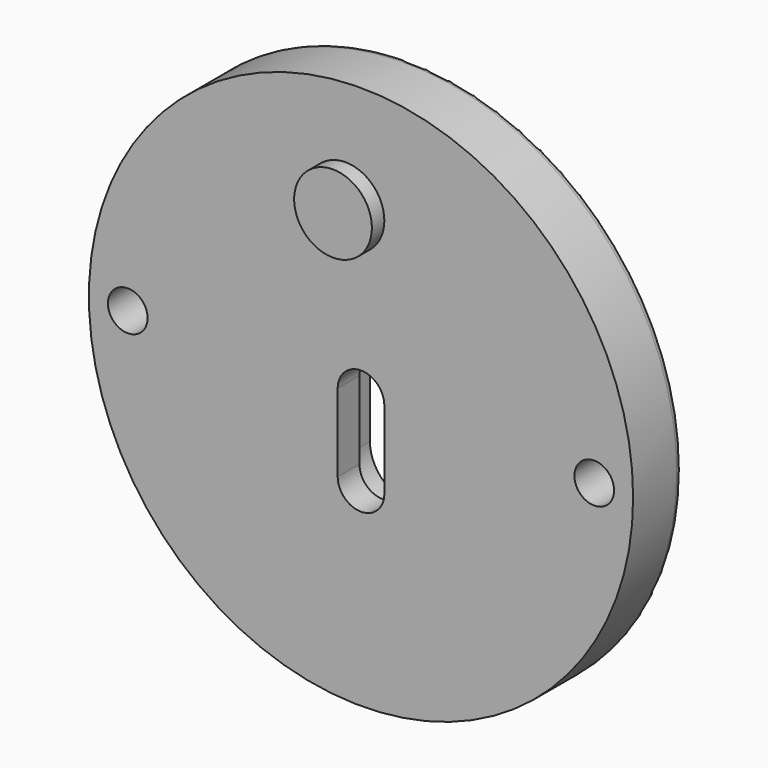
from build123d import *

# Parameters (mm, degrees)
F0_R     = 35
F0_R_2   = 2.55
F0_R_3   = 5
F1_DEPTH = 8
F2_DEPTH = 8
F3_DEPTH = 4.5
F4_R     = 1
F5_DEPTH = 10


with BuildPart() as f1:
    # F0 (on Front) → F1 (new body)
    with BuildSketch(Plane.XZ):
        Circle(F0_R)
        with BuildLine():
            ThreePointArc((-5.25, 0), (0, 5.25), (5.25, 0))
            Line((5.25, 0), (5.25, -10))
            ThreePointArc((5.25, -10), (0, -15.25), (-5.25, -10))
            Line((-5.25, -10), (-5.25, 0))
        make_face(mode=Mode.SUBTRACT)
        with Locations((-30, 0)):
            Circle(F0_R_2, mode=Mode.SUBTRACT)
        with Locations((-2, 20.93092)):
            Circle(F0_R_3, mode=Mode.SUBTRACT)
        with Locations((30, 0)):
            Circle(F0_R_2, mode=Mode.SUBTRACT)
    extrude(amount=F1_DEPTH)

    # F0 (on Front) → F2 (join)
    with BuildSketch(Plane.XZ):
        with BuildLine():
            Line((5.25, -10), (5.25, 0))
            ThreePointArc((5.25, 0), (0, 5.25), (-5.25, 0))
            Line((-5.25, 0), (-5.25, -10))
            ThreePointArc((-5.25, -10), (0, -15.25), (5.25, -10))
        make_face()
        with BuildLine():
            ThreePointArc((-3, 0), (0, 3), (3, 0))
            Line((3, 0), (3, -10))
            ThreePointArc((3, -10), (0, -13), (-3, -10))
            Line((-3, -10), (-3, 0))
        make_face(mode=Mode.SUBTRACT)
    extrude(amount=F2_DEPTH)

    # F0 (on Front) → F3 (cut)
    with BuildSketch(Plane.XZ):
        with BuildLine():
            Line((5.25, -10), (5.25, 0))
            ThreePointArc((5.25, 0), (0, 5.25), (-5.25, 0))
            Line((-5.25, 0), (-5.25, -10))
            ThreePointArc((-5.25, -10), (0, -15.25), (5.25, -10))
        make_face()
        with BuildLine():
            ThreePointArc((-3, 0), (0, 3), (3, 0))
            Line((3, 0), (3, -10))
            ThreePointArc((3, -10), (0, -13), (-3, -10))
            Line((-3, -10), (-3, 0))
        make_face(mode=Mode.SUBTRACT)
    extrude(amount=F3_DEPTH, mode=Mode.SUBTRACT)

    # F4
    f4_edges = [f1.edges().sort_by_distance(p)[0] for p in [
        (-35, 0, 0),
    ]]
    fillet(f4_edges, radius=F4_R)

    # F0 (on Front) → F5 (join)
    with BuildSketch(Plane.XZ):
        with Locations((-2, 20.93092)):
            Circle(F0_R_3)
    extrude(amount=F5_DEPTH)


solid = f1.part
